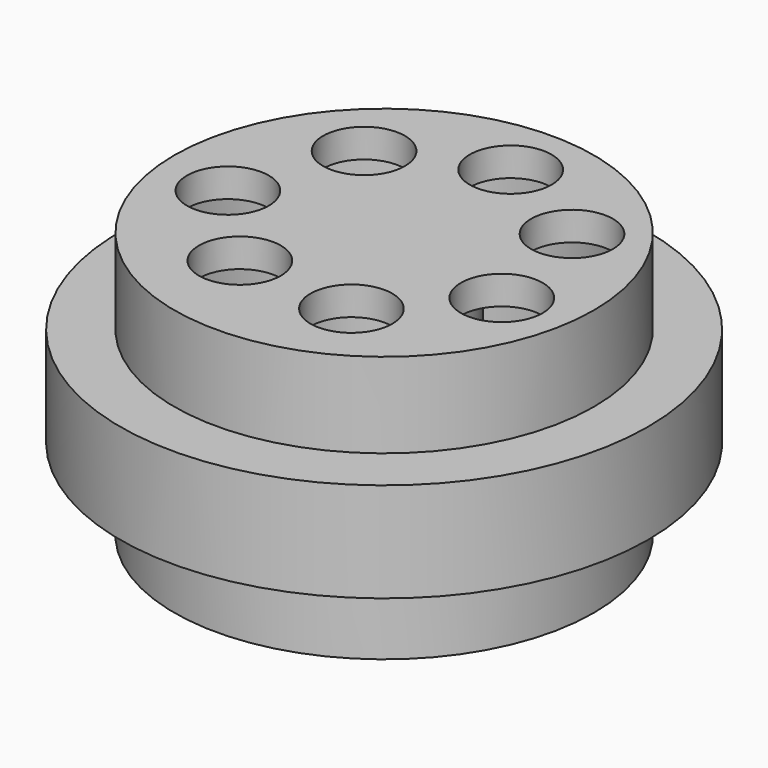
from build123d import *

# Parameters (mm, degrees)
F0_R     = 7.95
F1_DEPTH = 3.1
F2_R     = 10
F3_DEPTH = 3.77
F4_R     = 7.95
F5_DEPTH = 3.22
F6_R     = 1.55
F7_DEPTH = 25
F8_R     = 7.5
F8_R_2   = 1.55
F8_R_3   = 2.925
F8_R_4   = 0.8
F9_DEPTH = 9


with BuildPart() as f1:
    # F0 (on Top) → F1 (new body)
    with BuildSketch(Plane.XY):
        with Locations((-16.1596555263, 42.1727597713)):
            Circle(F0_R)
    extrude(amount=F1_DEPTH)

    # F2 (on face) → F3 (join)
    with BuildSketch(Plane.XY.offset(3.1)):
        with Locations((-16.1596555263, 42.1727597713)):
            Circle(F2_R)
    extrude(amount=F3_DEPTH)

    # F4 (on face) → F5 (join)
    with BuildSketch(Plane.XY.offset(6.87)):
        with Locations((-16.1596555263, 42.1727597713)):
            Circle(F4_R)
    extrude(amount=F5_DEPTH)

    # F6 (on face) → F7 (cut)
    with BuildSketch(Plane.XY.offset(10.09)):
        with Locations((-15.7605068353, 47.6678920378)):
            Circle(F6_R)
        with Locations((-19.8955421826, 45.8926504552)):
            Circle(F6_R)
        with Locations((-21.4543696493, 41.3926504552)):
            Circle(F6_R)
        with Locations((-18.3753594756, 38.1109289024)):
            Circle(F6_R)
        with Locations((-13.8753594756, 37.7701377139)):
            Circle(F6_R)
        with Locations((-10.8317825943, 41.0847477615)):
            Circle(F6_R)
        with Locations((-11.7717087802, 45.5847477615)):
            Circle(F6_R)
    extrude(amount=-F7_DEPTH, mode=Mode.SUBTRACT)

    # F8 (on face) → F9 (cut)
    with BuildSketch(Plane(origin=(0, 0, 0), x_dir=(1, 0, 0), z_dir=(0, 0, -1))):
        with Locations((-16.1596555263, -42.1727597713)):
            Circle(F8_R)
        with Locations((-19.8955421826, -45.8926504552)):
            Circle(F8_R_2, mode=Mode.SUBTRACT)
        with Locations((-16.1596555263, -42.1727597713)):
            Circle(F8_R_3, mode=Mode.SUBTRACT)
        with Locations((-15.7605068353, -47.6678920378)):
            Circle(F8_R_2, mode=Mode.SUBTRACT)
        with Locations((-11.7717087802, -45.5847477615)):
            Circle(F8_R_2, mode=Mode.SUBTRACT)
        with Locations((-21.4543696493, -41.3926504552)):
            Circle(F8_R_2, mode=Mode.SUBTRACT)
        with Locations((-18.3753594756, -38.1109289024)):
            Circle(F8_R_2, mode=Mode.SUBTRACT)
        with Locations((-10.8317825943, -41.0847477615)):
            Circle(F8_R_2, mode=Mode.SUBTRACT)
        with Locations((-13.8753594756, -37.7701377139)):
            Circle(F8_R_2, mode=Mode.SUBTRACT)
        with Locations((-16.1596555263, -42.1727597713)):
            Circle(F8_R_4)
    extrude(amount=-F9_DEPTH, mode=Mode.SUBTRACT)


solid = f1.part
